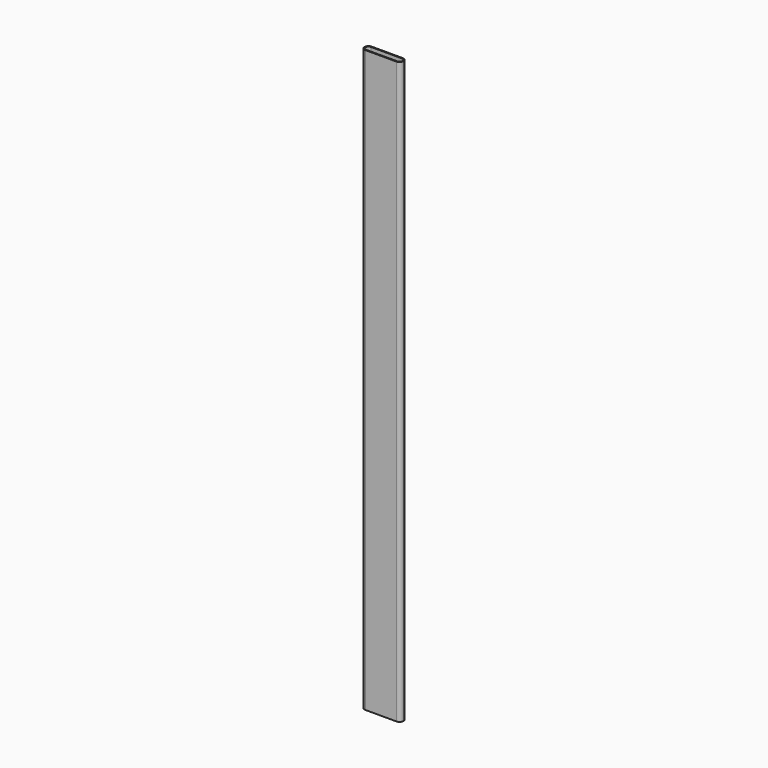
from build123d import *

# Parameters (mm, degrees)
F1_DEPTH = 750


with BuildPart() as f1:
    # F0 (on Top) → F1 (new body)
    with BuildSketch(Plane.XY):
        with BuildLine():
            Line((20, 5), (-20, 5))
            ThreePointArc((-20, 5), (-23.535534, 3.535534), (-25, 0))
            ThreePointArc((-25, 0), (-23.535534, -3.535534), (-20, -5))
            Line((-20, -5), (20, -5))
            ThreePointArc((20, -5), (23.535534, -3.535534), (25, 0))
            ThreePointArc((25, 0), (23.535534, 3.535534), (20, 5))
        make_face()
        with BuildLine():
            ThreePointArc((-23.9, 0), (-22.757716, 2.757716), (-20, 3.9))
            Line((-20, 3.9), (20, 3.9))
            ThreePointArc((20, 3.9), (22.757716, 2.757716), (23.9, 0))
            ThreePointArc((23.9, 0), (22.757716, -2.757716), (20, -3.9))
            Line((20, -3.9), (-20, -3.9))
            ThreePointArc((-20, -3.9), (-22.757716, -2.757716), (-23.9, 0))
        make_face(mode=Mode.SUBTRACT)
    extrude(amount=F1_DEPTH)


solid = f1.part
